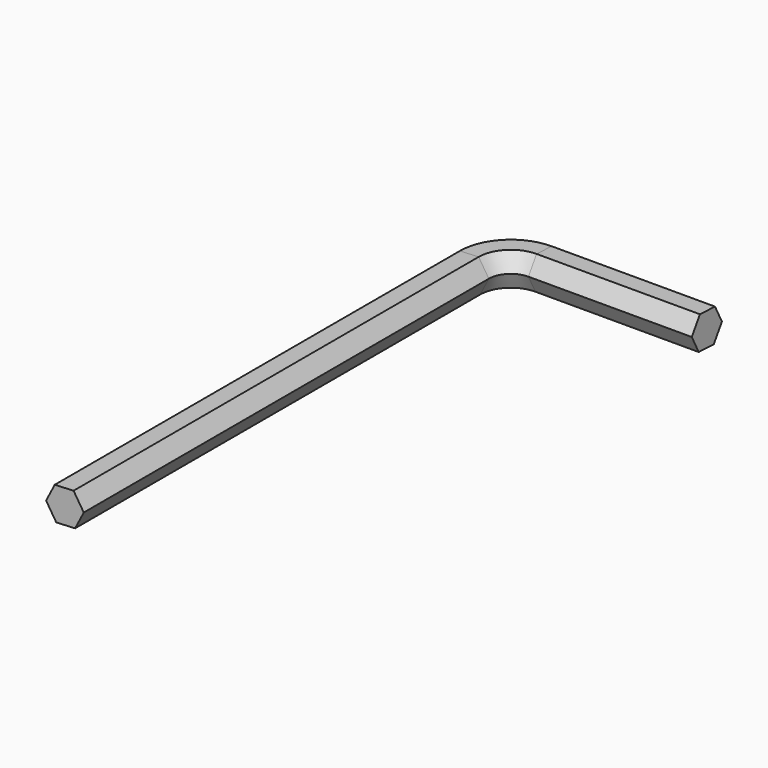
from build123d import *


with BuildPart() as f3:
    # F3: sweep along a path in F0
    with BuildLine(Plane.XY) as f3_path:
        Line((0, -67), (0, -5))
        ThreePointArc((0, -5), (1.464466, -1.464466), (5, 0))
        Line((5, 0), (25, 0))
    # F2 (on face) → F3 (sweep)
    with BuildSketch(Plane(origin=(0, -67, 0), x_dir=(-1, 0, 0), z_dir=(0, 1, 0))):
        Polygon((-1.059994, 2.051766), (-2.306879, 0.107901), (-1.246885, -1.943865), (1.059994, -2.051766), (2.306879, -0.107901), (1.246885, 1.943865), align=None)
    sweep(path=f3_path.line)


solid = f3.part
